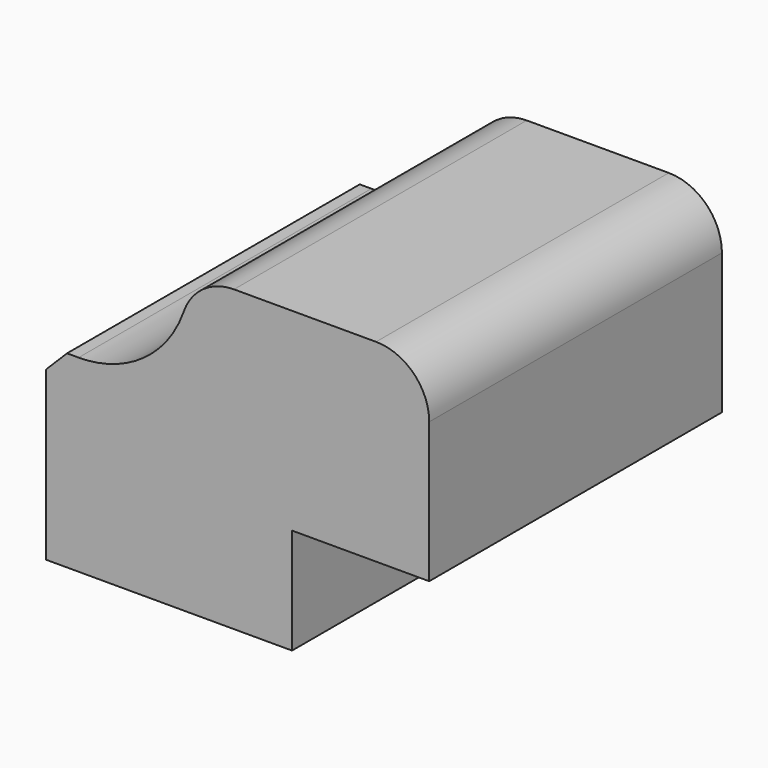
from build123d import *

# Parameters (mm, degrees)
F1_DEPTH = 88.646
F2_R     = 12.877415
F3_R     = 26.981251
F4_SIZE  = 5.08


with BuildPart() as f1:
    # F0 (on Front) → F1 (new body)
    with BuildSketch(Plane.XZ):
        Polygon((-35.384025, 45.681097), (-68.046205, 45.681097), (-68.046205, 0), (-8.452052, 0), (-8.452052, 25.599297), (24.783138, 25.599297), (24.783138, 72.478622), (-35.384025, 72.478622), align=None)
    extrude(amount=F1_DEPTH)

    # F2
    f2_edges = [f1.edges().sort_by_distance(p)[0] for p in [
        (24.783138, -44.323, 72.478622),
        (-35.384025, -44.323, 72.478622),
    ]]
    fillet(f2_edges, radius=F2_R)

    # F3
    f3_edges = [f1.edges().sort_by_distance(p)[0] for p in [
        (-35.384025, -44.323, 45.681097),
    ]]
    fillet(f3_edges, radius=F3_R)

    # F4
    f4_edges = [f1.edges().sort_by_distance(p)[0] for p in [
        (-68.046205, -44.323, 45.681097),
    ]]
    chamfer(f4_edges, length=F4_SIZE)


solid = f1.part
